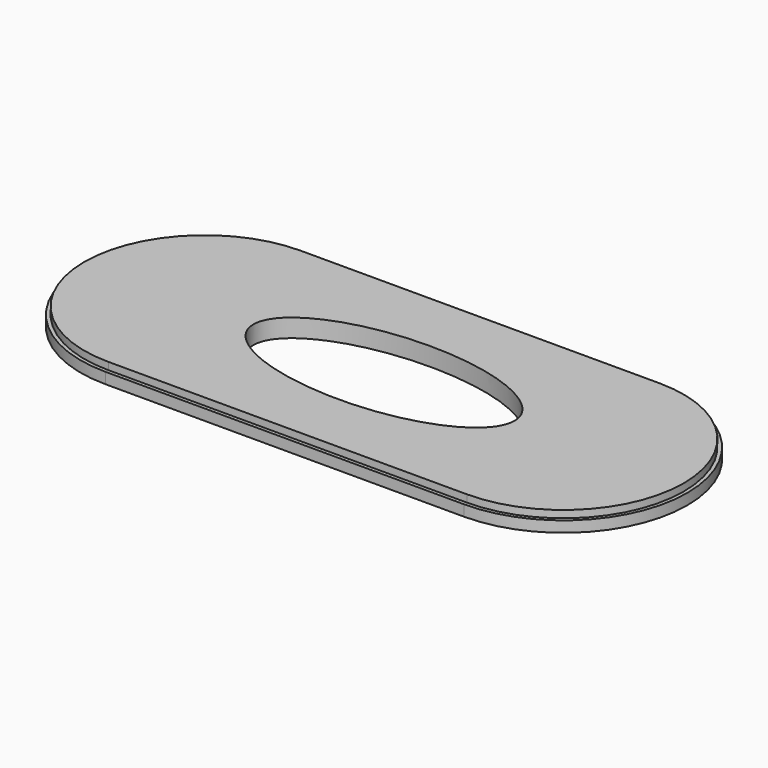
from build123d import *

# Parameters (mm, degrees)
F1_DEPTH = 1.5
F3_DEPTH = 1
F5_DEPTH = 25
F6_R     = 5.2
F7_DEPTH = 2


with BuildPart() as f1:
    # F0 (on Top) → F1 (new body)
    with BuildSketch(Plane.XY):
        with BuildLine():
            Line((24.6, 17), (-24.6, 17))
            ThreePointArc((-24.6, 17), (-41.6, 0), (-24.6, -17))
            Line((-24.6, -17), (24.6, -17))
            ThreePointArc((24.6, -17), (41.6, 0), (24.6, 17))
        make_face()
    extrude(amount=F1_DEPTH)

    # F2 (on face) → F3 (join)
    with BuildSketch(Plane.XY.offset(1.5)):
        with BuildLine():
            Line((24.6, 16.5), (-24.6, 16.5))
            ThreePointArc((-24.6, 16.5), (-41.1, 0), (-24.6, -16.5))
            Line((-24.6, -16.5), (24.6, -16.5))
            ThreePointArc((24.6, -16.5), (41.1, 0), (24.6, 16.5))
        make_face()
    extrude(amount=F3_DEPTH)

    # F4 (on face) → F5 (cut)
    with BuildSketch(Plane.XY.offset(2.5)):
        with BuildLine():
            add(Edge.make_bspline(
                [(-17.906335, 0), (-17.906335, -13.673996), (8.953167, -6.836998), (35.81267, 0), (8.953168, 6.836998), (-17.906335, 13.673996), (-17.906335, 0)],
                knots=[0, 0, 0, 2.094395, 2.094395, 4.18879, 4.18879, 6.283185, 6.283185, 6.283185], degree=2, weights=[1, 0.5, 1, 0.5, 1, 0.5, 1]))
        make_face()
    extrude(amount=-F5_DEPTH, mode=Mode.SUBTRACT)

    # F6 (on face) → F7 (cut)
    with BuildSketch(Plane(origin=(0, 0, 0), x_dir=(1, 0, 0), z_dir=(0, 0, -1))):
        with Locations((-27.906335, 0)):
            Circle(F6_R)
        with Locations((27.906335, 0)):
            Circle(F6_R)
    extrude(amount=-F7_DEPTH, mode=Mode.SUBTRACT)


solid = f1.part
